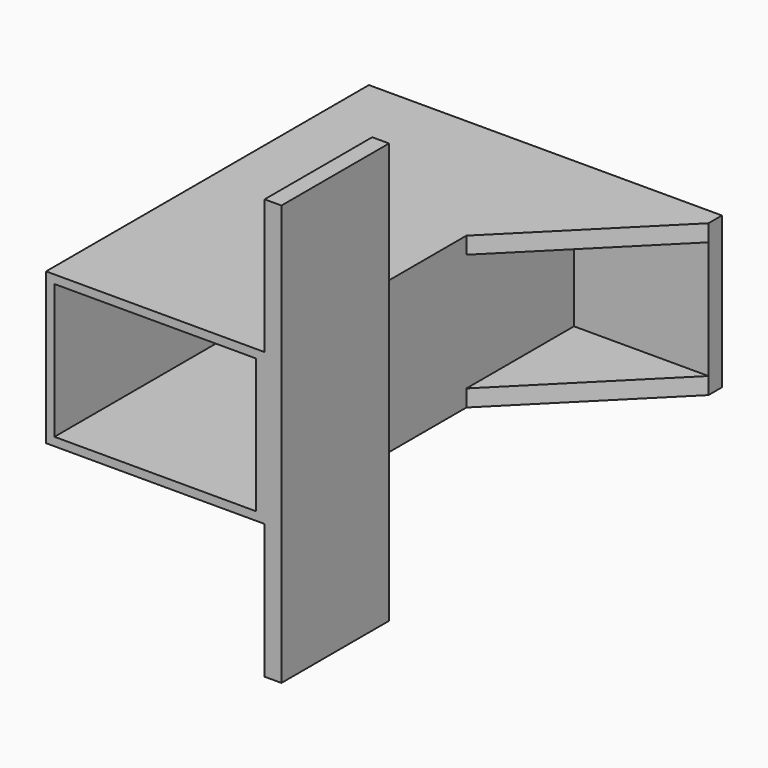
from build123d import *

# Parameters (mm, degrees)
F0_W     = 82.55
F0_H     = 57.15
F0_W_2   = 76.2
F0_H_2   = 50.8
F1_DEPTH = 152.4
F2_W     = 6.35
F2_H     = 57.15
F3_DEPTH = 50.8
F4_W     = 50.8
F4_H     = 6.35
F5_DEPTH = 50.8
F7_DEPTH = 118.618
F8_W     = 50.8
F8_H     = 158.75
F9_DEPTH = 6.35


with BuildPart() as f1:
    # F0 (on Front) → F1 (new body)
    with BuildSketch(Plane.XZ):
        with Locations((3.728271, -19.37303)):
            Rectangle(F0_W, F0_H)
        with Locations((3.728271, -19.37303)):
            Rectangle(F0_W_2, F0_H_2, mode=Mode.SUBTRACT)
    extrude(amount=F1_DEPTH)

    # F2 (on face) → F3 (join)
    with BuildSketch(Plane.YZ.offset(45.003271)):
        with Locations((-3.175, -19.37303)):
            Rectangle(F2_W, F2_H)
    extrude(amount=F3_DEPTH)

    # F4 (on face) → F5 (join)
    with BuildSketch(Plane.XZ.offset(6.35)):
        with Locations((70.403271, -44.77303)):
            Rectangle(F4_W, F4_H)
        with Locations((70.403271, 6.02697)):
            Rectangle(F4_W, F4_H)
    extrude(amount=F5_DEPTH)

    # F6 (on face) → F7 (cut)
    with BuildSketch(Plane.XY.offset(9.20197)):
        Polygon((95.803271, -6.35), (45.003271, -57.15), (95.803271, -57.15), align=None)
    extrude(amount=-F7_DEPTH, mode=Mode.SUBTRACT)

    # F8 (on face) → F9 (join)
    with BuildSketch(Plane.YZ.offset(45.003271)):
        with Locations((-127, -19.37303)):
            Rectangle(F8_W, F8_H)
    extrude(amount=F9_DEPTH)


solid = f1.part
